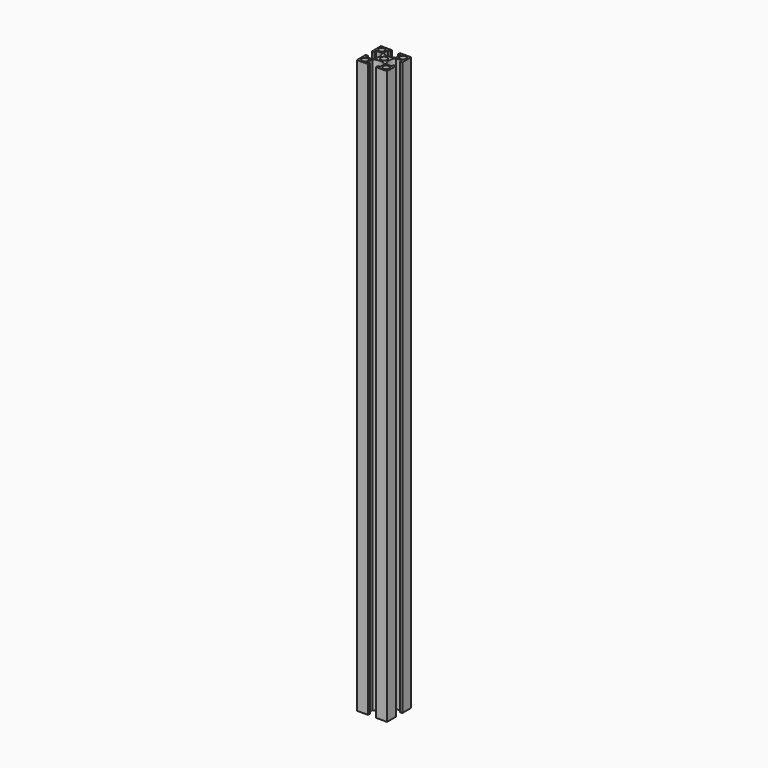
from build123d import *

# Parameters (mm, degrees)
F0_R     = 2
F0_R_2   = 2.15
F1_DEPTH = 380


with BuildPart() as f1:
    # F0 (on Top) → F1 (new body)
    with BuildSketch(Plane.XY):
        with BuildLine():
            Line((-10, 10), (-10, 2.65))
            Line((-10, 2.65), (-8.5, 2.65))
            Line((-8.5, 2.65), (-8.5, 4.15))
            Line((-8.5, 4.15), (-4.552801, 4.15))
            ThreePointArc((-4.552801, 4.15), (-3.3, 0), (-4.552801, -4.15))
            Line((-4.552801, -4.15), (-8.5, -4.15))
            Line((-8.5, -4.15), (-8.5, -2.65))
            Line((-8.5, -2.65), (-10, -2.65))
            Line((-10, -2.65), (-10, -10))
            Line((-10, -10), (-2.65, -10))
            Line((-2.65, -10), (-2.65, -8.5))
            Line((-2.65, -8.5), (-4.15, -8.5))
            Line((-4.15, -8.5), (-4.15, -4.552801))
            ThreePointArc((-4.15, -4.552801), (0, -3.3), (4.15, -4.552801))
            Line((4.15, -4.552801), (4.15, -8.5))
            Line((4.15, -8.5), (2.65, -8.5))
            Line((2.65, -8.5), (2.65, -10))
            Line((2.65, -10), (10, -10))
            Line((10, -10), (10, -2.65))
            Line((10, -2.65), (8.5, -2.65))
            Line((8.5, -2.65), (8.5, -4.15))
            Line((8.5, -4.15), (4.552801, -4.15))
            ThreePointArc((4.552801, -4.15), (3.3, 0), (4.552801, 4.15))
            Line((4.552801, 4.15), (8.5, 4.15))
            Line((8.5, 4.15), (8.5, 2.65))
            Line((8.5, 2.65), (10, 2.65))
            Line((10, 2.65), (10, 10))
            Line((10, 10), (2.65, 10))
            Line((2.65, 10), (2.65, 8.5))
            Line((2.65, 8.5), (4.15, 8.5))
            Line((4.15, 8.5), (4.15, 4.552801))
            ThreePointArc((4.15, 4.552801), (0, 3.3), (-4.15, 4.552801))
            Line((-4.15, 4.552801), (-4.15, 8.5))
            Line((-4.15, 8.5), (-2.65, 8.5))
            Line((-2.65, 8.5), (-2.65, 10))
            Line((-2.65, 10), (-10, 10))
        make_face()
        with Locations((-7, -7)):
            Circle(F0_R, mode=Mode.SUBTRACT)
        with Locations((7, -7)):
            Circle(F0_R, mode=Mode.SUBTRACT)
        with Locations((-7, 7)):
            Circle(F0_R, mode=Mode.SUBTRACT)
        Circle(F0_R_2, mode=Mode.SUBTRACT)
        with Locations((7, 7)):
            Circle(F0_R, mode=Mode.SUBTRACT)
    extrude(amount=F1_DEPTH)


solid = f1.part
